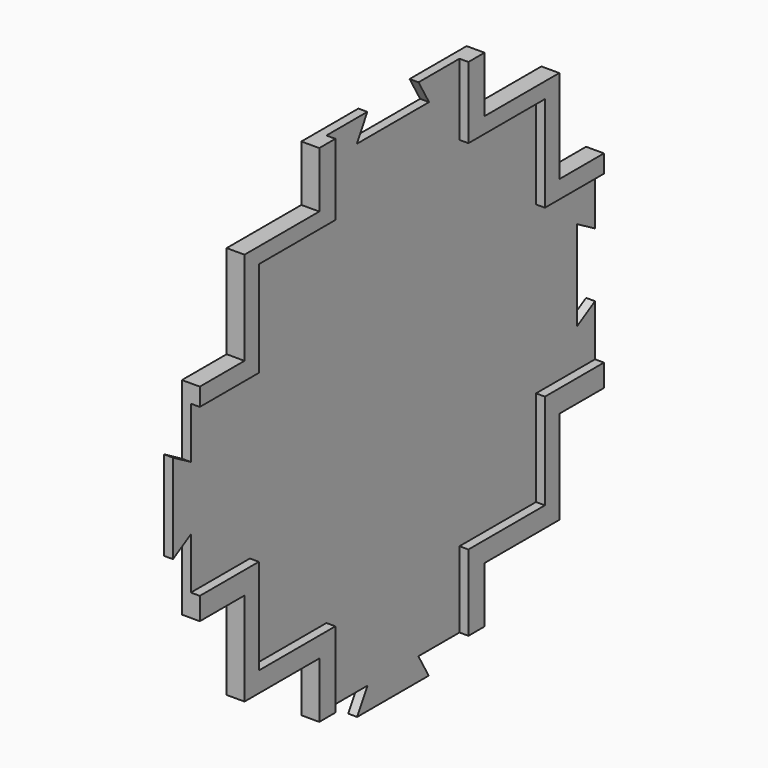
from build123d import *

# Parameters (mm, degrees)
PAD_DEPTH       = 4
POCKET_DEPTH    = 2
POCKET001_DEPTH = 5


with BuildPart() as part:
    # Sketch001 → Pad (new body)
    with BuildSketch(Plane.YZ):
        Polygon((56.5, 56), (56.5, 39), (56.5, 7.155514), (51.4, 10.1), (51.4, -10.1), (56.5, -7.155514), (56.5, -40), (56.5, -57), (39.5, -57), (7.113249, -57), (10, -62), (-10, -62), (-7.113249, -57), (-39.5, -57), (-56.5, -57), (-56.5, -40), (-56.5, -7.113249), (-61.5, -10), (-61.5, 10), (-56.5, 7.113249), (-56.5, 39), (-56.5, 56), (-39.5, 56), (-7.155514, 56), (-10.1, 50.9), (10.1, 50.9), (7.155514, 56), (39.5, 56), align=None)
    extrude(amount=PAD_DEPTH)

    # Sketch → Pocket (cut)
    with BuildSketch(Plane.YZ.offset(4)):
        Polygon((-40, 40), (-18.6, 40), (-18.6, 62), (18.6, 62), (18.6, 40), (40, 40), (40, 18.6), (62, 18.6), (62, -18.6), (40, -18.6), (40, -40), (18.6, -40), (18.6, -62), (-18.6, -62), (-18.6, -40), (-40, -40), (-40, -18.6), (-62, -18.6), (-62, 18.6), (-40, 18.6), align=None)
    extrude(amount=-POCKET_DEPTH, mode=Mode.SUBTRACT)

    # Sketch002 → Pocket001 (cut)
    with BuildSketch(Plane.YZ.offset(4)):
        Polygon((-44, 43.5), (-44, 22.6), (-56.5, 22.6), (-56.5, 56), (-23.1, 56), (-23.1, 43.5), align=None)
        Polygon((23.1, 43.5), (23.1, 56), (56.5, 56), (56.5, 22.6), (44, 22.6), (44, 43.5), align=None)
        Polygon((-56.5, -23.6), (-44, -23.6), (-44, -44.5), (-23.1, -44.5), (-23.1, -57), (-56.5, -57), align=None)
        Polygon((23.1, -44.5), (44, -44.5), (44, -23.6), (56.5, -23.6), (56.5, -57), (23.1, -57), align=None)
    extrude(amount=-POCKET001_DEPTH, mode=Mode.SUBTRACT)


solid = part.part
